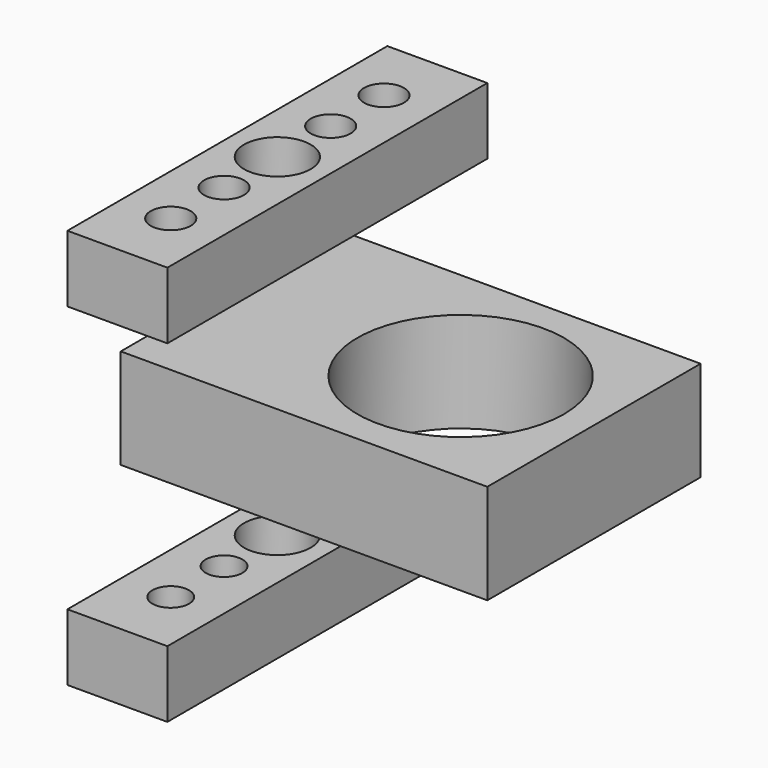
from build123d import *

# Parameters (mm, degrees)
F0_W     = 15
F0_H     = 60
F0_R     = 2.75
F0_R_2   = 5
F5_DEPTH = 10
F3_W     = 15
F3_H     = 60
F3_R     = 3
F3_R_2   = 5
F6_DEPTH = 10
F4_W     = 15
F4_H     = 40
F4_W_2   = 40
F4_R     = 15.5
F7_DEPTH = 15


with BuildPart() as f5:
    # F0 (on Top) → F5 (new body)
    with BuildSketch(Plane.XY):
        Rectangle(F0_W, F0_H)
        with Locations((0, -20)):
            Circle(F0_R, mode=Mode.SUBTRACT)
        with Locations((0, -10)):
            Circle(F0_R, mode=Mode.SUBTRACT)
        Circle(F0_R_2, mode=Mode.SUBTRACT)
        with Locations((0, 10)):
            Circle(F0_R, mode=Mode.SUBTRACT)
        with Locations((0, 20)):
            Circle(F0_R, mode=Mode.SUBTRACT)
    extrude(amount=F5_DEPTH)


with BuildPart() as f6:
    # F3 (on offset) → F6 (new body)
    with BuildSketch(Plane.XY.offset(50)):
        Rectangle(F3_W, F3_H)
        with Locations((0, -20)):
            Circle(F3_R, mode=Mode.SUBTRACT)
        with Locations((0, -10)):
            Circle(F3_R, mode=Mode.SUBTRACT)
        Circle(F3_R_2, mode=Mode.SUBTRACT)
        with Locations((0, 10)):
            Circle(F3_R, mode=Mode.SUBTRACT)
        with Locations((0, 20)):
            Circle(F3_R, mode=Mode.SUBTRACT)
    extrude(amount=F6_DEPTH)


with BuildPart() as f7:
    # F4 (on offset) → F7 (new body)
    with BuildSketch(Plane.XY.offset(25)):
        Rectangle(F4_W, F4_H)
        with Locations((27.5, 0)):
            Rectangle(F4_W_2, F4_H)
        with Locations((27.5, 0)):
            Circle(F4_R, mode=Mode.SUBTRACT)
    extrude(amount=F7_DEPTH)


solid = Compound([f5.part, f6.part, f7.part])
